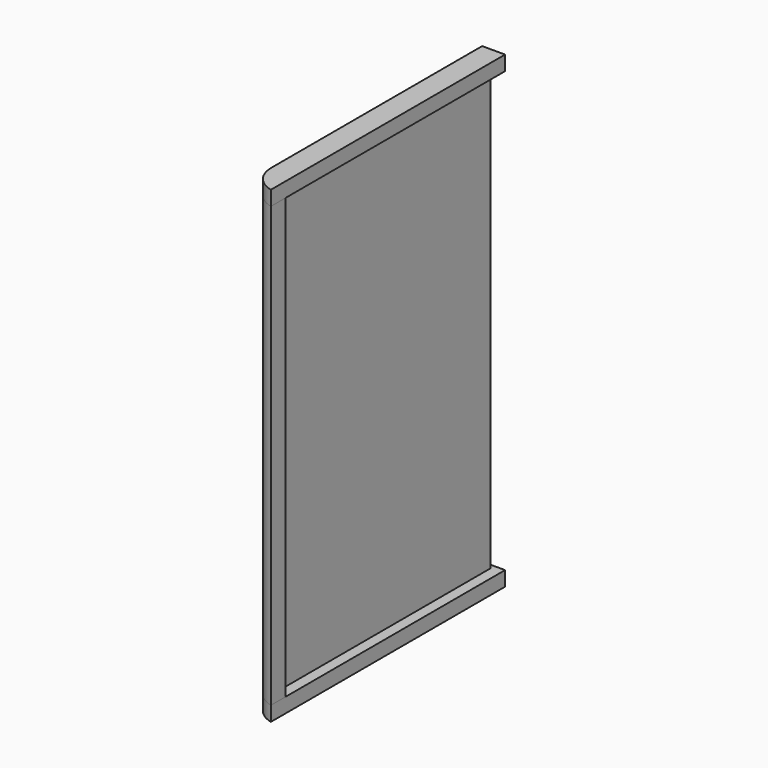
from build123d import *

# Parameters (mm, degrees)
F1_DEPTH = 900
F3_DEPTH = 30


with BuildPart() as f1:
    # F0 (on Top) → F1 (new body)
    with BuildSketch(Plane.XY):
        with BuildLine():
            Line((25, -540), (25, -10.355339))
            Line((25, -10.355339), (0, 0))
            Line((0, 0), (0, -540))
            ThreePointArc((0, -540), (13.148854, -578.108398), (47, -600))
            Line((47, -600), (47, -563))
            Line((47, -563), (25, -540))
        make_face()
    extrude(amount=F1_DEPTH)


with BuildPart() as f3:
    # F2 (on face) → F3 (new body)
    with BuildSketch(Plane.XY.offset(900)):
        Polygon((47, 0), (0, 0), (25, -10.355339), (25, -540), (47, -563), align=None)
        with BuildLine():
            Line((25, -10.355339), (0, 0))
            Line((0, 0), (0, -540))
            ThreePointArc((0, -540), (13.148854, -578.108398), (47, -600))
            Line((47, -600), (47, -563))
            Line((47, -563), (25, -540))
            Line((25, -540), (25, -10.355339))
        make_face()
    extrude(amount=F3_DEPTH)


with BuildPart() as f5_1:
    # F5: instance of F3
    add(f3.part.mirror(Plane(origin=(14.064969, -308.163629, 450), x_dir=(1, 0, 0), z_dir=(0, 0, 1))))


solid = Compound([f1.part, f3.part, f5_1.part])
